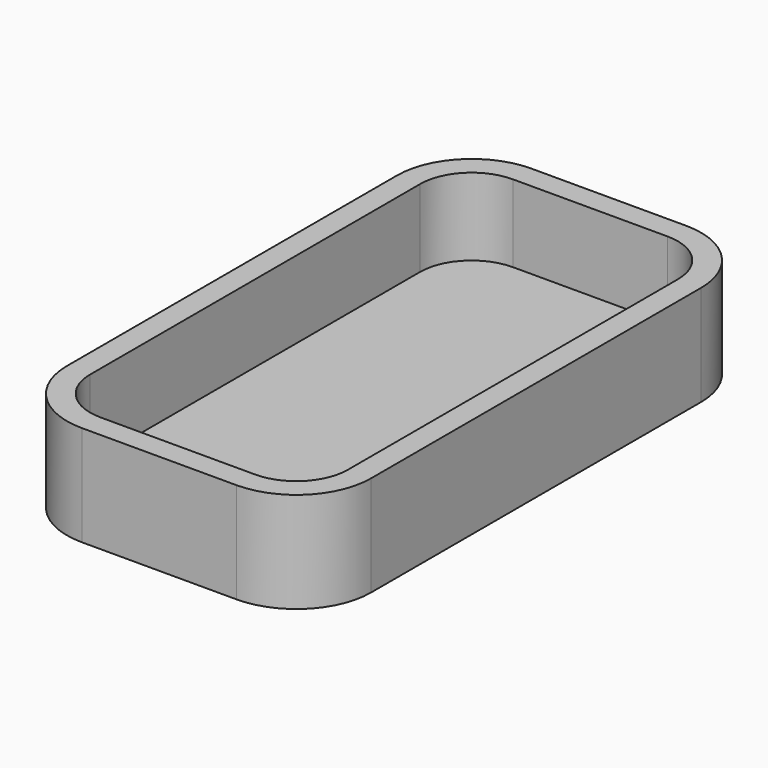
from build123d import *

# Parameters (mm, degrees)
F0_W     = 50
F0_H     = 100
F1_DEPTH = 15
F2_R     = 10
F3_T     = 4.5


with BuildPart() as f1:
    # F0 (on Top) → F1 (new body)
    with BuildSketch(Plane.XY):
        with Locations((25, 50)):
            Rectangle(F0_W, F0_H)
    extrude(amount=F1_DEPTH)

    # F2
    f2_edges = [f1.edges().sort_by_distance(p)[0] for p in [
        (0, 0, 7.5),
        (50, 0, 7.5),
        (50, 100, 7.5),
        (0, 100, 7.5),
    ]]
    fillet(f2_edges, radius=F2_R)

    # F3
    f3_openings = [f1.faces().sort_by_distance(p)[0] for p in [
        (25, 50, 15),
    ]]
    offset(amount=F3_T, openings=f3_openings, kind=Kind.INTERSECTION)


solid = f1.part
